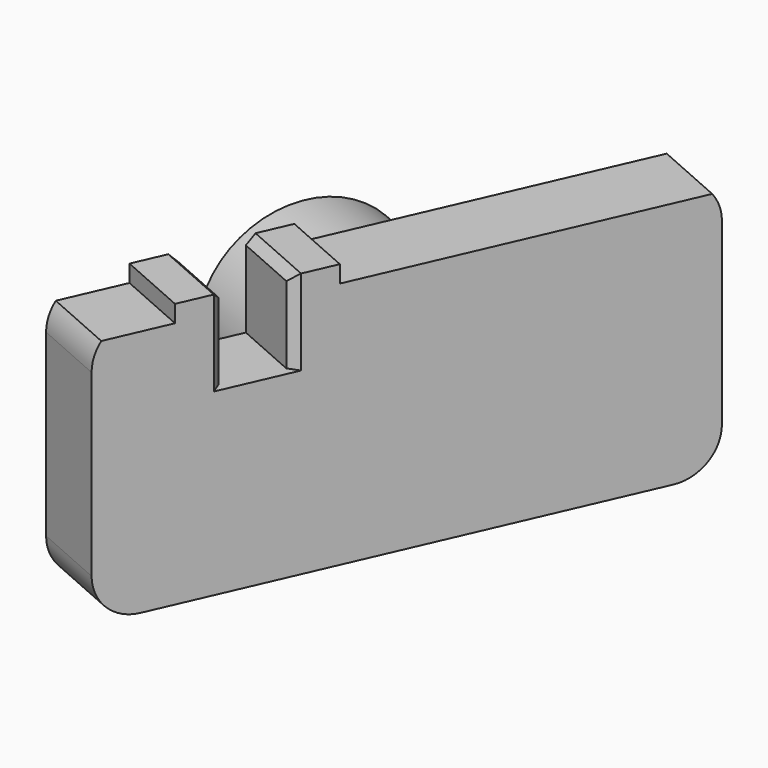
from build123d import *

# Parameters (mm, degrees)
PAD039_DEPTH            = 1.8
SKETCH116_R             = 2.25
PAD040_DEPTH            = 2.6
CHAMFER003_SIZE         = 0.4
SKETCH117_W             = 1.4
SKETCH117_H             = 2
SKETCH117_W_2           = 9.515449
SKETCH117_H_2           = 0.4
SKETCH117_W_3           = 4.064247
POCKET008_DEPTH         = 1.8
CHAMFER004_SIZE         = 0.2
BODY039_PLACEMENT_ANGLE = 23.8


with BuildPart() as part:
    # Sketch115 → Pad039 (new body)
    with BuildSketch(Plane.YZ):
        with BuildLine():
            Line((-6.5, 2.1), (-6.5, -2.1))
            ThreePointArc((-6.5, -2.1), (-6.207107, -2.807107), (-5.5, -3.1))
            Line((-5.5, -3.1), (5.5, -3.1))
            ThreePointArc((5.5, -3.1), (6.207107, -2.807107), (6.5, -2.1))
            Line((6.5, -2.1), (6.5, 2.1))
            ThreePointArc((6.5, 2.1), (6.207107, 2.807107), (5.5, 3.1))
            Line((-5.5, 3.1), (5.5, 3.1))
            ThreePointArc((-5.5, 3.1), (-6.207107, 2.807107), (-6.5, 2.1))
        make_face()
    extrude(amount=PAD039_DEPTH)

    # Sketch116 (on Face9 of Pad039) → Pad040 (join)
    with BuildSketch(Plane(origin=(0, 0, 0), x_dir=(0, 1, 0), z_dir=(-1, 0, 0))):
        Circle(SKETCH116_R)
    extrude(amount=PAD040_DEPTH)

    # Chamfer003
    chamfer003_edges = [part.edges().sort_by_distance(p)[0] for p in [
        (-2.6, -2.25, 0),
    ]]
    chamfer(chamfer003_edges, length=CHAMFER003_SIZE)

    # Sketch117 (on Face13 of Chamfer003) → Pocket008 (cut)
    with BuildSketch(Plane.YZ.offset(1.8)):
        with Locations((-3.08, 2.1)):
            Rectangle(SKETCH117_W, SKETCH117_H)
        with Locations((3.377724, 2.9)):
            Rectangle(SKETCH117_W_2, SKETCH117_H_2)
        with Locations((-6.812123, 2.9)):
            Rectangle(SKETCH117_W_3, SKETCH117_H_2)
    extrude(amount=-POCKET008_DEPTH, mode=Mode.SUBTRACT)

    # Chamfer004
    chamfer004_edges = [part.edges().sort_by_distance(p)[0] for p in [
        (0.9, -2.38, 3.1),
        (0.9, -3.78, 3.1),
        (1.8, -2.38, 2.1),
        (1.8, -3.78, 2.1),
    ]]
    chamfer(chamfer004_edges, length=CHAMFER004_SIZE)


with BuildPart() as part_1:
    # Body039 placement: moved
    add(part.part.moved(Location((-19.5, 50, -6.9))).rotate(Axis((-19.5, 50, -6.9), (0, 0, -1)), BODY039_PLACEMENT_ANGLE))


solid = part_1.part
